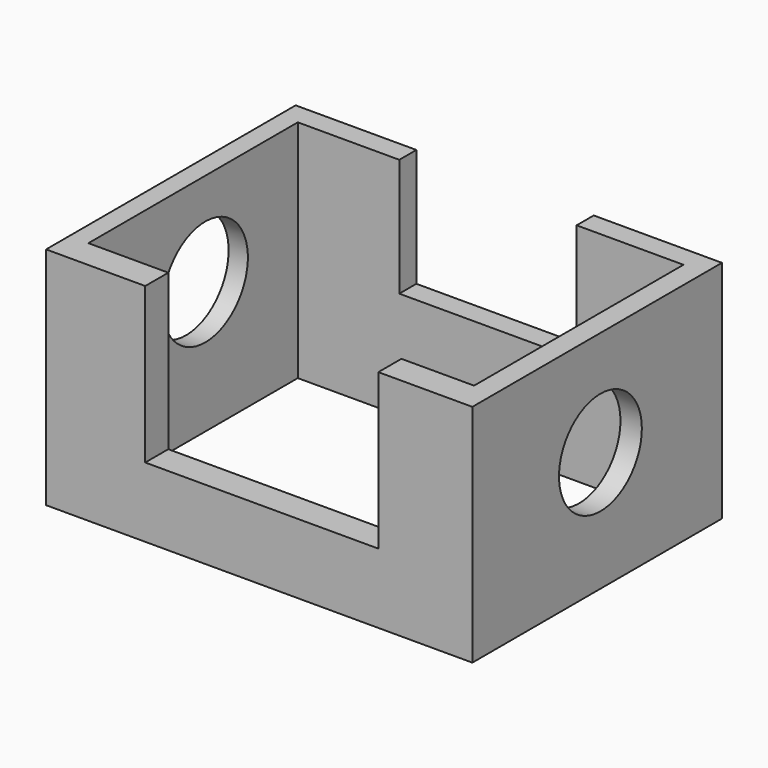
from build123d import *

# Parameters (mm, degrees)
F0_W     = 86.9988277555
F0_H     = 59.0435229242
F1_DEPTH = 50.8
F3_W     = 52.5893084705
F3_H     = 35.0492546886
F4_DEPTH = 25.4
F5_W     = 40.0050003082
F5_H     = 26.5801052183
F6_DEPTH = 25.4
F2_R     = 12.0116475693
F7_DEPTH = 25.4
F8_R     = 11.6783182931
F9_DEPTH = 25.4


with BuildPart() as f1:
    # F0 (on Top) → F1 (new body)
    with BuildSketch(Plane.XY):
        Polygon((55.7901114225, 37.7155579627), (-40.3664931655, 37.7155579627), (-40.3664931655, 32.8956767917), (-40.3664931655, -26.1478461325), (-40.3664931655, -32.654684037), (50.9702265263, -32.654684037), (55.7901114225, -32.654684037), (55.7901114225, 32.8956767917), align=None)
        with Locations((7.4708126485, 3.3739153296)):
            Rectangle(F0_W, F0_H, mode=Mode.SUBTRACT)
    extrude(amount=F1_DEPTH)

    # F3 (on face) → F4 (cut)
    with BuildSketch(Plane.XZ.offset(32.654684037)):
        with Locations((8.2922223955, 33.2753726557)):
            Rectangle(F3_W, F3_H)
    extrude(amount=-F4_DEPTH, mode=Mode.SUBTRACT)

    # F5 (on face) → F6 (cut)
    with BuildSketch(Plane(origin=(0, 37.7155579627, 0), x_dir=(-1, 0, 0), z_dir=(0, 1, 0))):
        with Locations((-6.8683279678, 37.5099473909)):
            Rectangle(F5_W, F5_H)
    extrude(amount=-F6_DEPTH, mode=Mode.SUBTRACT)

    # F2 (on face) → F7 (cut)
    with BuildSketch(Plane(origin=(-40.3664931655, 0, 0), x_dir=(0, -1, 0), z_dir=(-1, 0, 0))):
        with Locations((-6.8044061773, 29.7015700489)):
            Circle(F2_R)
    extrude(amount=-F7_DEPTH, mode=Mode.SUBTRACT)

    # F8 (on face) → F9 (cut)
    with BuildSketch(Plane.YZ.offset(55.7901114225)):
        with Locations((3.4555627499, 27.0565394312)):
            Circle(F8_R)
    extrude(amount=-F9_DEPTH, mode=Mode.SUBTRACT)


solid = f1.part
